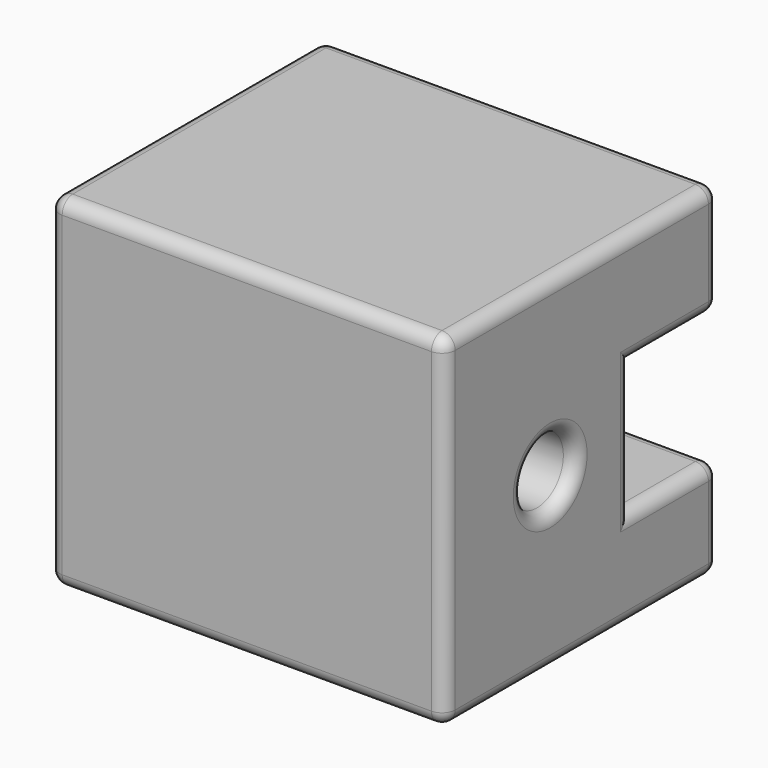
from build123d import *

# Parameters (mm, degrees)
F0_W     = 66.04
F0_H     = 66.04
F2_DEPTH = 76.2
F1_W     = 38.1
F1_H     = 25.4
F3_DEPTH = 76.2
F4_R     = 6.35
F5_DEPTH = 101.6
F6_R     = 2.54


with BuildPart() as f2:
    # F0 (on Right) → F2 (new body)
    with BuildSketch(Plane.YZ):
        with Locations((0.8847024292, 3.9172693067)):
            Rectangle(F0_W, F0_H)
    extrude(amount=F2_DEPTH)

    # F1 (on Right) → F3 (cut)
    with BuildSketch(Plane.YZ):
        with Locations((31.75, 2.6490623131)):
            Rectangle(F1_W, F1_H)
    extrude(amount=F3_DEPTH, mode=Mode.SUBTRACT)

    # F4 (on face) → F5 (cut)
    with BuildSketch(Plane.YZ.offset(76.2)):
        with Locations((-6.7352975708, 3.9172693067)):
            Circle(F4_R)
    extrude(amount=-F5_DEPTH, mode=Mode.SUBTRACT)

    # F6
    f6_edges = [f2.edges().sort_by_distance(p)[0] for p in [
        (0, 33.904702, 26.143166),
        (0, 0.884702, 36.937269),
        (0, 0.884702, -29.102731),
        (0, -32.135298, 3.917269),
        (0, 33.904702, -19.576834),
        (0, 23.302351, -10.050938),
        (0, 12.7, 2.649062),
        (0, 23.302351, 15.349062),
        (0, -13.085298, 3.917269),
        (76.2, 0.884702, -29.102731),
        (76.2, -32.135298, 3.917269),
        (76.2, 33.904702, -19.576834),
        (76.2, 0.884702, 36.937269),
        (76.2, 23.302351, -10.050938),
        (76.2, 33.904702, 26.143166),
        (76.2, 12.7, 2.649062),
        (76.2, 23.302351, 15.349062),
        (76.2, -13.085298, 3.917269),
        (38.1, 33.904702, 36.937269),
        (38.1, 33.904702, 15.349062),
        (38.1, 33.904702, -10.050938),
        (38.1, 33.904702, -29.102731),
        (38.1, -32.135298, -29.102731),
        (38.1, -32.135298, 36.937269),
    ]]
    fillet(f6_edges, radius=F6_R)


solid = f2.part
